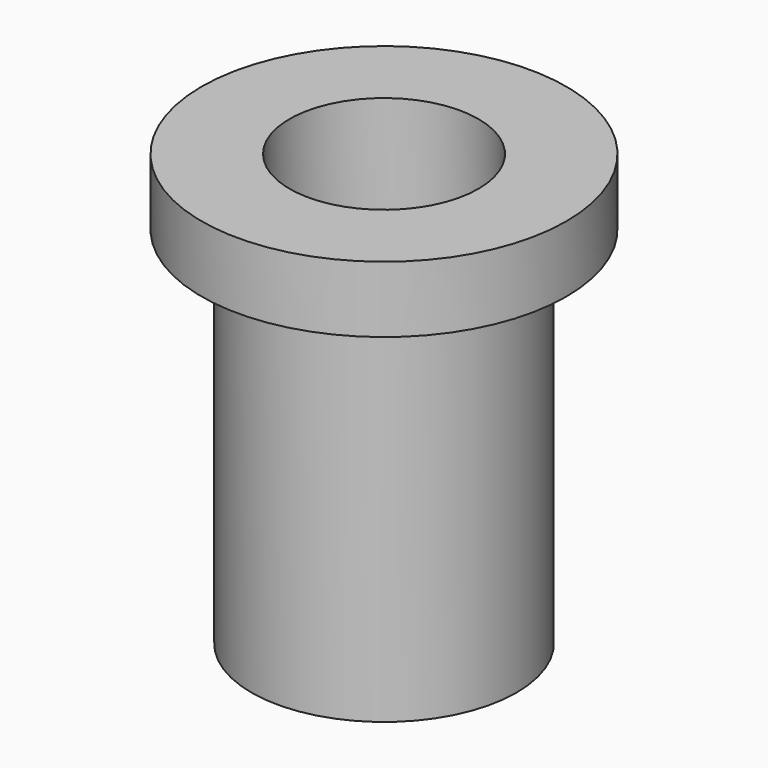
from build123d import *

# Parameters (mm, degrees)
F0_R     = 4
F1_DEPTH = 11
F2_R     = 5.5
F2_R_2   = 4
F3_DEPTH = 2
F4_R     = 2.85
F5_DEPTH = 3.5
F6_R     = 1.6
F7_DEPTH = 25


with BuildPart() as f1:
    # F0 (on Top) → F1 (new body)
    with BuildSketch(Plane.XY):
        Circle(F0_R)
    extrude(amount=F1_DEPTH)

    # F2 (on face) → F3 (join)
    with BuildSketch(Plane.XY.offset(11)):
        Circle(F2_R)
        Circle(F2_R_2, mode=Mode.SUBTRACT)
        Circle(F2_R_2)
    extrude(amount=F3_DEPTH)

    # F4 (on face) → F5 (cut)
    with BuildSketch(Plane.XY.offset(13)):
        Circle(F4_R)
    extrude(amount=-F5_DEPTH, mode=Mode.SUBTRACT)

    # F6 (on face) → F7 (cut)
    with BuildSketch(Plane.XY.offset(9.5)):
        Circle(F6_R)
    extrude(amount=-F7_DEPTH, mode=Mode.SUBTRACT)


solid = f1.part
